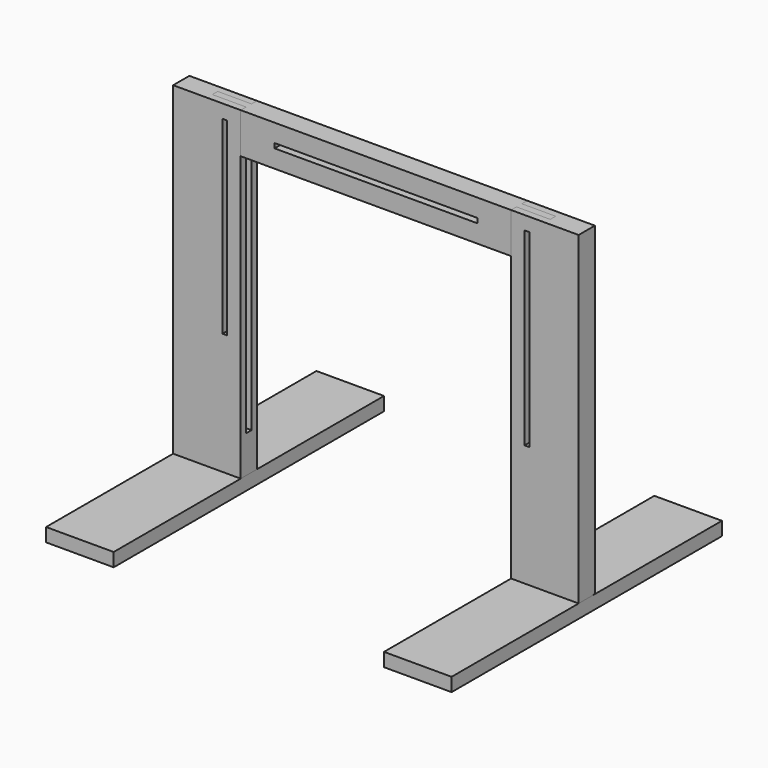
from build123d import *

# Parameters (mm, degrees)
F0_W      = 100
F0_H      = 20
F1_DEPTH  = 250
F3_DEPTH  = 15
F4_W      = 49.990886
F4_H      = 5
F5_DEPTH  = 425
F7_W      = 7
F7_H      = 280
F8_DEPTH  = 110
F10_DEPTH = 60
F11_R     = 3.5
F12_DEPTH = 56
F14_DEPTH = 46


with BuildPart() as f1:
    # F0 (on Front) → F1 (new body, symmetric)
    with BuildSketch(Plane.XZ):
        with Locations((-250, 10)):
            Rectangle(F0_W, F0_H)
        with Locations((250, 10)):
            Rectangle(F0_W, F0_H)
    extrude(amount=F1_DEPTH, both=True)


with BuildPart() as f3:
    # F2 (on Front) → F3 (new body, symmetric)
    with BuildSketch(Plane.XZ):
        Polygon((-299.981773, 20), (-200, 20), (-200, 229), (-200, 500), (-299.981773, 500), (-299.981773, 305), align=None)
    extrude(amount=F3_DEPTH, both=True)

    # F4 (on face) → F5 (cut)
    with BuildSketch(Plane.XY.offset(500)):
        with Locations((-224.995443, -2.5)):
            Rectangle(F4_W, F4_H)
        with Locations((-224.995443, 2.5)):
            Rectangle(F4_W, F4_H)
    extrude(amount=-F5_DEPTH, mode=Mode.SUBTRACT)


with BuildPart() as f6_1:
    # F6: instance of F3
    add(f3.part.mirror(Plane.YZ))


with BuildPart() as f8_tool:
    # F7 (on face) → F8 (new body)
    with BuildSketch(Plane.XZ.offset(15)):
        with Locations((-223.5, 340)):
            Rectangle(F7_W, F7_H)
        with Locations((223.5, 340)):
            Rectangle(F7_W, F7_H)
    extrude(amount=-F8_DEPTH)


with BuildPart() as f3_1:
    add(f3.part)

    # F8: cut by f8_tool
    add(f8_tool.part, mode=Mode.SUBTRACT)


with BuildPart() as f6_1_1:
    add(f6_1.part)

    # F8: cut by f8_tool
    add(f8_tool.part, mode=Mode.SUBTRACT)


with BuildPart() as f10:
    # F9 (on face) → F10 (new body)
    with BuildSketch(Plane.XY.offset(500)):
        Polygon((-200, -5), (-200, -15), (0, -15), (200, -15), (200, -5), (249.990886, -5), (249.990886, 5), (200, 5), (200, 15), (0, 15), (-200, 15), (-200, 5), (-249.990886, 5), (-249.990886, -5), align=None)
    extrude(amount=-F10_DEPTH)

    # F11 (on face) → F12 (cut, symmetric)
    with BuildSketch(Plane(origin=(0, 5, 0), x_dir=(-1, 0, 0), z_dir=(0, 1, 0))):
        with BuildLine():
            ThreePointArc((-220, 473), (-221.025126, 475.474874), (-223.5, 476.5))
            ThreePointArc((-223.5, 476.5), (-225.974874, 470.525126), (-220, 473))
        make_face()
        with Locations((223.5, 473)):
            Circle(F11_R)
    extrude(amount=F12_DEPTH, both=True, mode=Mode.SUBTRACT)

    # F13 (on face) → F14 (cut)
    with BuildSketch(Plane.XZ.offset(15)):
        Polygon((-150, 473.5), (-150, 470), (-150, 466.5), (0, 466.5), (150, 466.5), (150, 473.5), (0, 473.5), align=None)
    extrude(amount=-F14_DEPTH, mode=Mode.SUBTRACT)


solid = Compound([f1.part, f3_1.part, f6_1_1.part, f10.part])
